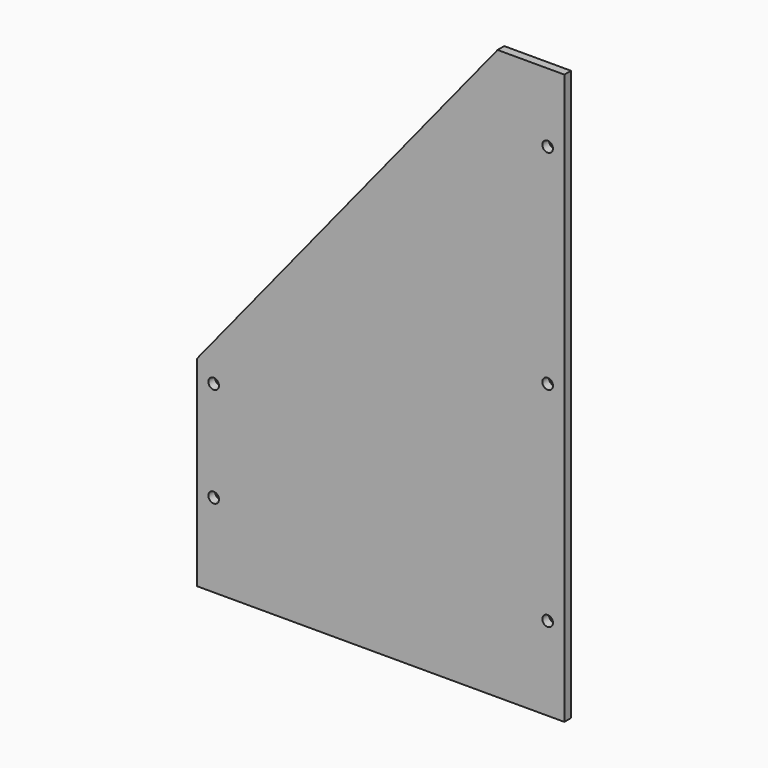
from build123d import *

# Parameters (mm, degrees)
F0_R     = 2.0193
F1_DEPTH = 3.175


with BuildPart() as f1:
    # F0 (on Front) → F1 (new body)
    with BuildSketch(Plane.XZ):
        Polygon((-80.645, -94.45625), (59.055, -94.45625), (59.055, 122.2375), (33.655, 122.2375), (-80.645, -18.25625), align=None)
        with Locations((-74.295, -62.70625)):
            Circle(F0_R, mode=Mode.SUBTRACT)
        with Locations((-74.295, -24.60625)):
            Circle(F0_R, mode=Mode.SUBTRACT)
        with Locations((52.705, -62.70625)):
            Circle(F0_R, mode=Mode.SUBTRACT)
        with Locations((52.705, 16.66875)):
            Circle(F0_R, mode=Mode.SUBTRACT)
        with Locations((52.705, 96.04375)):
            Circle(F0_R, mode=Mode.SUBTRACT)
    extrude(amount=F1_DEPTH)


solid = f1.part
